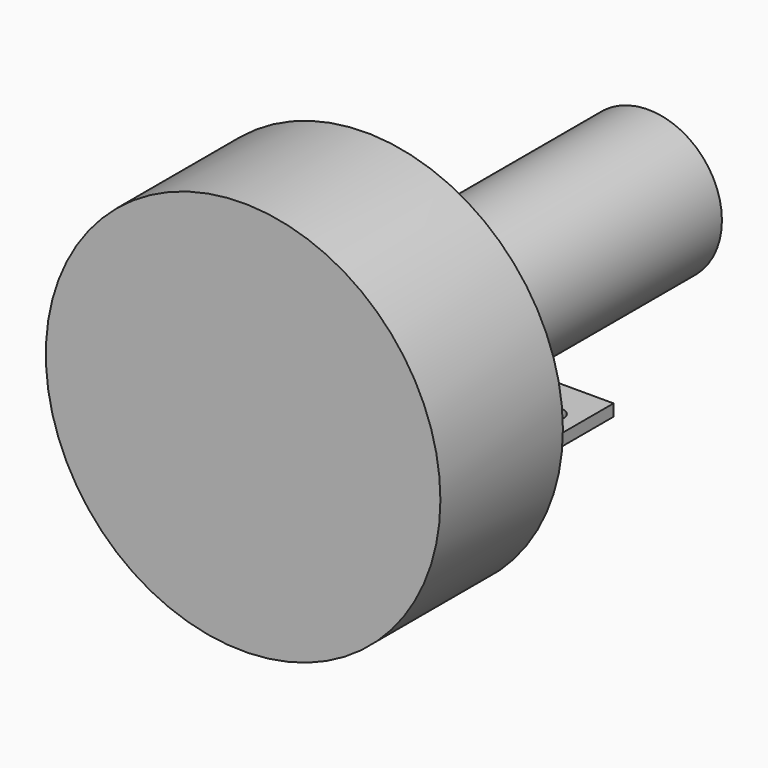
from build123d import *

# Parameters (mm, degrees)
SKETCH002_R             = 33.5
PAD002_DEPTH            = 26
SKETCH003_R             = 12.5
PAD003_DEPTH            = 60
PAD004_DEPTH            = 12.5
POCKET_DEPTH            = 10
SKETCH024_R             = 2
POCKET007_DEPTH         = 2
BODY002_PLACEMENT_ANGLE = 270


with BuildPart() as part:
    # Sketch002 → Pad002 (new body)
    with BuildSketch(Plane.YZ):
        Circle(SKETCH002_R)
    extrude(amount=PAD002_DEPTH)

    # Sketch003 → Pad003 (join)
    with BuildSketch(Plane.YZ):
        Circle(SKETCH003_R)
    extrude(amount=-PAD003_DEPTH)

    # Sketch004 → Pad004 (join, symmetric)
    with BuildSketch(Plane.XZ):
        Polygon((-6, 12.5), (-6, -20), (-37, -20), (-37, -18), (-8, -18), (-8, 12.5), align=None)
    extrude(amount=PAD004_DEPTH, both=True)

    # Sketch005 → Pocket (cut)
    with BuildSketch(Plane.YZ):
        with BuildLine():
            ThreePointArc((12.5, 0), (0, 12.5), (-12.5, 0))
            Line((-13.5, 0), (-12.5, 0))
            Line((-13.5, 13.5), (-13.5, 0))
            Line((13.5, 13.5), (-13.5, 13.5))
            Line((13.5, 0), (13.5, 13.5))
            Line((12.5, 0), (13.5, 0))
        make_face()
    extrude(amount=-POCKET_DEPTH, mode=Mode.SUBTRACT)

    # Sketch024 (on Face11 of Pocket) → Pocket007 (cut)
    with BuildSketch(Plane.YX.offset(20)):
        with Locations((8, -15.5)):
            Circle(SKETCH024_R)
        with Locations((-8, -15.5)):
            Circle(SKETCH024_R)
        with Locations((-8, -29.5)):
            Circle(SKETCH024_R)
        with Locations((8, -29.5)):
            Circle(SKETCH024_R)
    extrude(amount=-POCKET007_DEPTH, mode=Mode.SUBTRACT)


with BuildPart() as part_1:
    # Body002 placement: moved
    add(part.part.moved(Location((-87, -84.5, 25))).rotate(Axis((-87, -84.5, 25), (0, 0, 1)), BODY002_PLACEMENT_ANGLE))


solid = part_1.part
